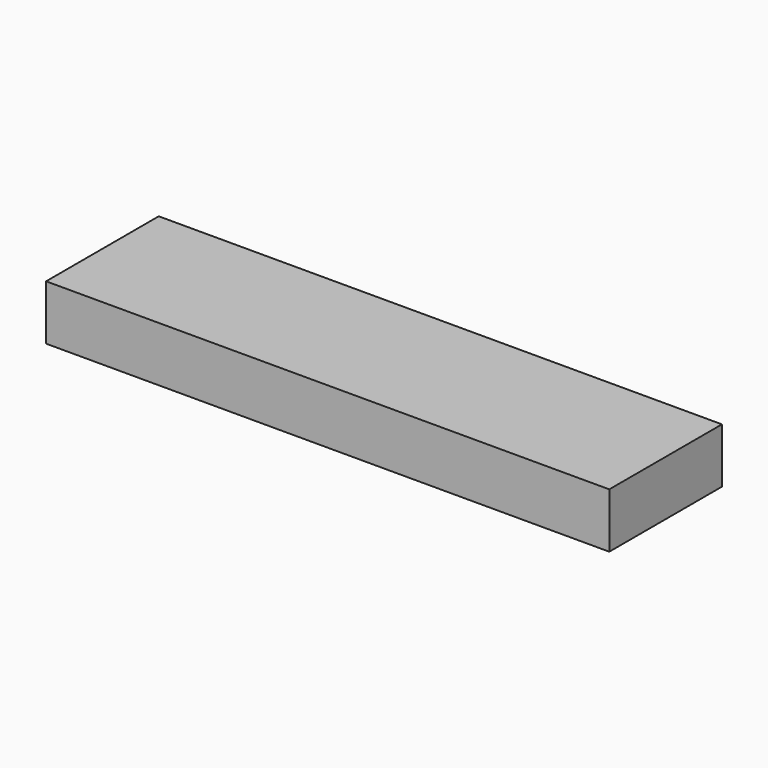
from build123d import *

# Parameters (mm, degrees)
SKETCH_W  = 20
SKETCH_H  = 5
PAD_DEPTH = 1.95


with BuildPart() as part:
    # Sketch → Pad (new body)
    with BuildSketch(Plane.XY):
        with Locations((10, 2.5)):
            Rectangle(SKETCH_W, SKETCH_H)
    extrude(amount=PAD_DEPTH)


solid = part.part
